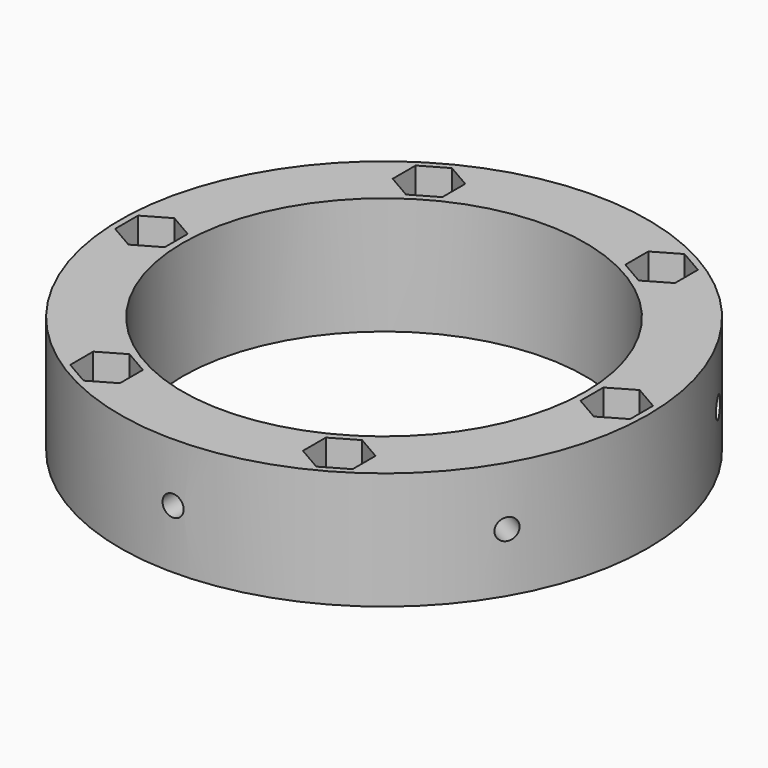
from build123d import *

# Parameters (mm, degrees)
F0_R     = 33.75
F0_R_2   = 25.75
F1_DEPTH = 15
F3_DEPTH = 20
F4_COUNT = 6
F6_R     = 1.35
F7_DEPTH = 40
F9_COUNT = 6


with BuildPart() as f1:
    # F0 (on Top) → F1 (new body)
    with BuildSketch(Plane.XY):
        Circle(F0_R)
        Circle(F0_R_2, mode=Mode.SUBTRACT)
    extrude(amount=F1_DEPTH)


with BuildPart() as f3:
    # F2 (on face) → F3 (new body)
    with BuildSketch(Plane.XY.offset(15)):
        Polygon((-26.575, -1.833087), (-26.575, 1.833087), (-29.75, 3.666174), (-32.925, 1.833087), (-32.925, -1.833087), (-29.75, -3.666174), align=None)
    extrude(amount=-F3_DEPTH)


with BuildPart() as f4_1:
    # F4: instance of F3
    add(f3.part.rotate(Axis((0, 0, 15), (0, 0, 1)), 1 * 360 / F4_COUNT))


with BuildPart() as f4_2:
    # F4: instance of F3
    add(f3.part.rotate(Axis((0, 0, 15), (0, 0, 1)), 2 * 360 / F4_COUNT))


with BuildPart() as f4_3:
    # F4: instance of F3
    add(f3.part.rotate(Axis((0, 0, 15), (0, 0, 1)), 3 * 360 / F4_COUNT))


with BuildPart() as f4_4:
    # F4: instance of F3
    add(f3.part.rotate(Axis((0, 0, 15), (0, 0, 1)), 4 * 360 / F4_COUNT))


with BuildPart() as f4_5:
    # F4: instance of F3
    add(f3.part.rotate(Axis((0, 0, 15), (0, 0, 1)), 5 * 360 / F4_COUNT))


with BuildPart() as f1_1:
    add(f1.part)

    # F5: cut F4_1, F3, F4_2, F4_3, F4_4, F4_5
    add(f4_1.part, mode=Mode.SUBTRACT)
    add(f3.part, mode=Mode.SUBTRACT)
    add(f4_2.part, mode=Mode.SUBTRACT)
    add(f4_3.part, mode=Mode.SUBTRACT)
    add(f4_4.part, mode=Mode.SUBTRACT)
    add(f4_5.part, mode=Mode.SUBTRACT)


with BuildPart() as f7:
    # F6 (on Front) → F7 (new body)
    with BuildSketch(Plane.XZ):
        with Locations((0, 7.524926)):
            Circle(F6_R)
    extrude(amount=F7_DEPTH)


with BuildPart() as f7_1:
    # F8: moved
    add(f7.part.moved(Location((0, -26, 0))))


with BuildPart() as f9_1:
    # F9: instance of F7
    add(f7_1.part.rotate(Axis((0, 0, 15), (0, 0, 1)), 1 * 360 / F9_COUNT))


with BuildPart() as f9_2:
    # F9: instance of F7
    add(f7_1.part.rotate(Axis((0, 0, 15), (0, 0, 1)), 2 * 360 / F9_COUNT))


with BuildPart() as f9_3:
    # F9: instance of F7
    add(f7_1.part.rotate(Axis((0, 0, 15), (0, 0, 1)), 3 * 360 / F9_COUNT))


with BuildPart() as f9_4:
    # F9: instance of F7
    add(f7_1.part.rotate(Axis((0, 0, 15), (0, 0, 1)), 4 * 360 / F9_COUNT))


with BuildPart() as f9_5:
    # F9: instance of F7
    add(f7_1.part.rotate(Axis((0, 0, 15), (0, 0, 1)), 5 * 360 / F9_COUNT))


with BuildPart() as f1_2:
    add(f1_1.part)

    # F10: cut F7, F9_1, F9_2, F9_3, F9_4, F9_5
    add(f7_1.part, mode=Mode.SUBTRACT)
    add(f9_1.part, mode=Mode.SUBTRACT)
    add(f9_2.part, mode=Mode.SUBTRACT)
    add(f9_3.part, mode=Mode.SUBTRACT)
    add(f9_4.part, mode=Mode.SUBTRACT)
    add(f9_5.part, mode=Mode.SUBTRACT)


solid = f1_2.part
